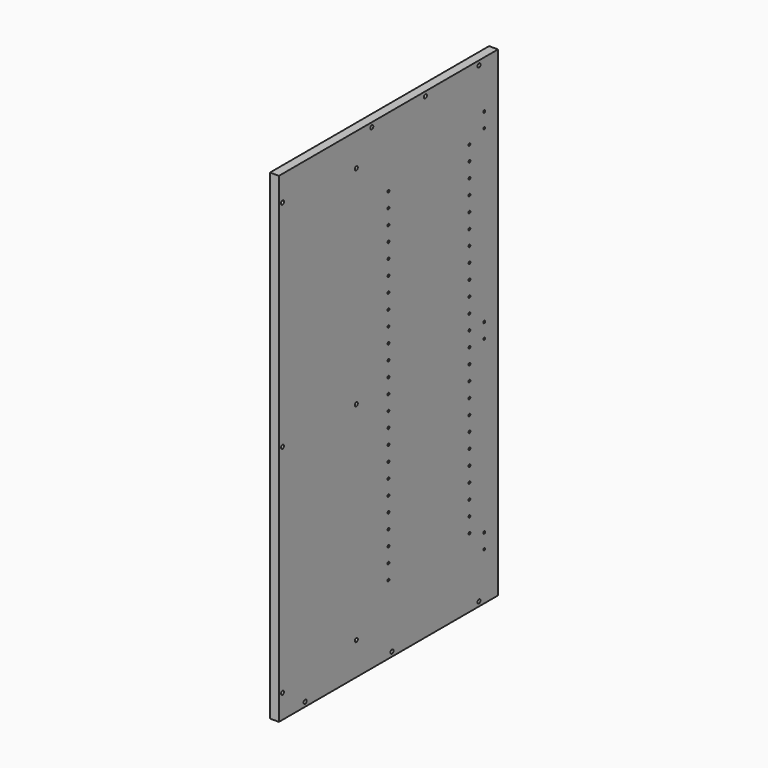
from build123d import *

# Parameters (mm, degrees)
F0_W     = 584.2
F0_H     = 1025.525
F1_DEPTH = 19.05
F3_D     = 8.001
F3_DEPTH = 14.224
F3_TIP   = 2.4037429064
F5_D     = 5.0038
F5_DEPTH = 14.224
F5_TIP   = 1.5032931827


with BuildPart() as f1:
    # F0 (on Right) → F1 (new body)
    with BuildSketch(Plane.YZ):
        Rectangle(F0_W, F0_H)
    extrude(amount=F1_DEPTH)

    # F3
    with Locations(Plane.YZ.offset(19.05)):
        with Locations((-241.3, 503.2375), (-98.425, 503.2375), (44.45, 503.2375), (85.725, 442.9125), (282.575, 458.7875), (282.575, 0), (85.725, 0), (282.575, -461.9625), (222.25, -503.2375), (85.725, -442.9125), (-9.525, -503.2375), (-241.3, -503.2375)):
            Hole(F3_D / 2, depth=F3_DEPTH)
            with Locations((0, 0, -(F3_DEPTH + F3_TIP / 2))):  # 118° drill point
                Cone(0, F3_D / 2, F3_TIP, mode=Mode.SUBTRACT)

    # F5
    with Locations(Plane.YZ.offset(19.05)):
        with Locations((-255.524, 411.1625), (-255.524, 379.4125), (-255.524, 15.875), (-255.524, -15.875), (-255.524, -379.4125), (-255.524, -411.1625), (-215.9, 365.1885), (-215.9, 301.6885), (-215.9, 269.9385), (-215.9, 206.4385), (-215.9, 174.6885), (-215.9, 111.1885), (-215.9, 79.4385), (-215.9, 47.6885), (-215.9, 15.9385), (-215.9, -15.8115), (-215.9, -47.5615), (-215.9, -79.3115), (-215.9, -111.0615), (-215.9, -142.8115), (-215.9, -174.5615), (-215.9, -206.3115), (-215.9, -238.0615), (-215.9, -269.8115), (-215.9, -333.3115), (-215.9, -365.0615), (-215.9, -301.5615), (0, -365.0615), (0, -301.5615), (0, -269.8115), (0, -206.3115), (0, -174.5615), (0, -142.8115), (0, -111.0615), (0, -79.3115), (0, -15.8115), (0, 15.9385), (0, 79.4385), (0, 111.1885), (0, 174.6885), (0, 206.4385), (0, 269.9385), (0, 301.6885), (0, 365.1885), (-215.9, 333.4385), (0, 333.4385), (0, 238.1885), (-215.9, 238.1885), (-215.9, 142.9385), (0, 142.9385), (0, 47.6885), (0, -47.5615), (0, -238.0615), (0, -333.3115)):
            Hole(F5_D / 2, depth=F5_DEPTH)
            with Locations((0, 0, -(F5_DEPTH + F5_TIP / 2))):  # 118° drill point
                Cone(0, F5_D / 2, F5_TIP, mode=Mode.SUBTRACT)


with BuildPart() as f6_1:
    # F6: instance of F1
    add(f1.part.mirror(Plane(origin=(9.525, 292.1, 0), x_dir=(-1, 0, 0), z_dir=(0, 1, 0))))


solid = f6_1.part
